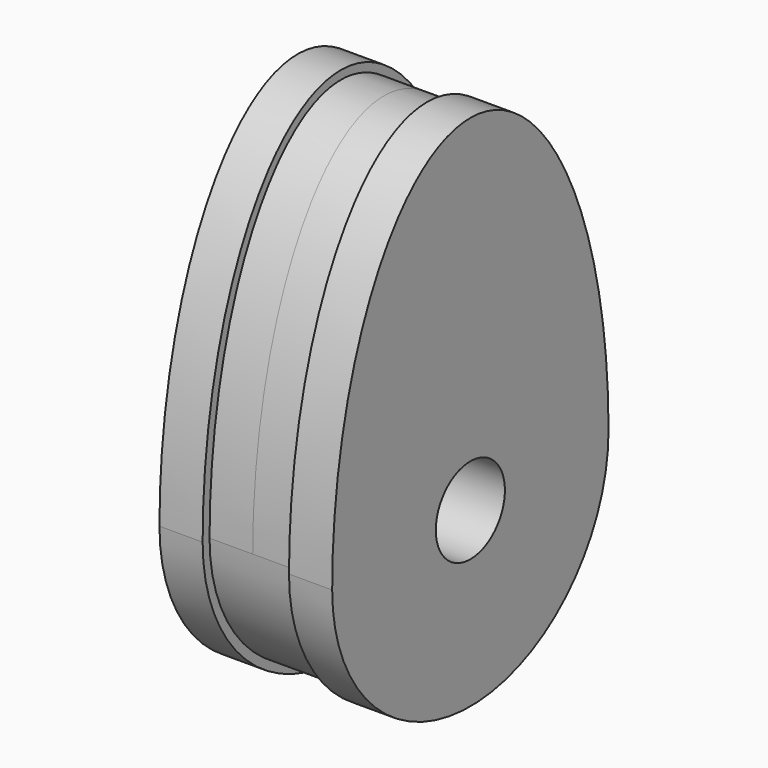
from build123d import *

# Parameters (mm, degrees)
F1_DEPTH = 12.7
F3_DEPTH = 6.35
F5_DEPTH = 7.62
F6_R     = 6.35
F7_DEPTH = 25.4010001


with BuildPart() as f1:
    # F0 (on Right) → F1 (new body, symmetric)
    with BuildSketch(Plane.YZ):
        with BuildLine():
            ThreePointArc((-25.4, 0), (0, -25.4), (25.4, 0))
            ThreePointArc((25.4, 0), (0, 25.4), (-25.4, 0))
        make_face()
        with BuildLine():
            ThreePointArc((-25.4, 0), (0, 25.4), (25.4, 0))
            add(Edge.make_bspline(
                [(25.4, 0), (25.4, 50.8), (0, 50.8), (-25.4, 50.8), (-25.4, 0)],
                knots=[4.7123889804, 4.7123889804, 4.7123889804, 6.2831853072, 6.2831853072, 7.853981634, 7.853981634, 7.853981634], degree=2, weights=[1, 0.7071067812, 1, 0.7071067812, 1]))
        make_face()
    extrude(amount=F1_DEPTH, both=True)

    # F2 (on Right) → F3 (cut, symmetric)
    with BuildSketch(Plane.YZ):
        with BuildLine():
            ThreePointArc((-25.4, 0), (0, -25.4), (25.4, 0))
            add(Edge.make_bspline(
                [(25.4, 0), (25.4, 50.8), (0, 50.8), (-25.4, 50.8), (-25.4, 0)],
                knots=[4.7123889804, 4.7123889804, 4.7123889804, 6.2831853072, 6.2831853072, 7.853981634, 7.853981634, 7.853981634], degree=2, weights=[1, 0.7071067812, 1, 0.7071067812, 1]))
        make_face()
    extrude(amount=F3_DEPTH, both=True, mode=Mode.SUBTRACT)

    # F4 (on Right) → F5 (join, symmetric)
    with BuildSketch(Plane.YZ):
        with BuildLine():
            ThreePointArc((-24.13, 0), (0, -24.13), (24.13, 0))
            ThreePointArc((24.13, 0), (0, 24.13), (-24.13, 0))
        make_face()
        with BuildLine():
            ThreePointArc((-24.13, 0), (0, 24.13), (24.13, 0))
            add(Edge.make_bspline(
                [(24.13, 0), (24.13, 49.53), (0, 49.53), (-24.13, 49.53), (-24.13, 0)],
                knots=[4.7123889804, 4.7123889804, 4.7123889804, 6.2831853072, 6.2831853072, 7.853981634, 7.853981634, 7.853981634], degree=2, weights=[1, 0.7071067812, 1, 0.7071067812, 1]))
        make_face()
    extrude(amount=F5_DEPTH, both=True)

    # F6 (on face) → F7 (cut, through all)
    with BuildSketch(Plane(origin=(-12.7, 0, 0), x_dir=(0, -1, 0), z_dir=(-1, 0, 0))):
        Circle(F6_R)
    extrude(amount=-F7_DEPTH, mode=Mode.SUBTRACT)


solid = f1.part
